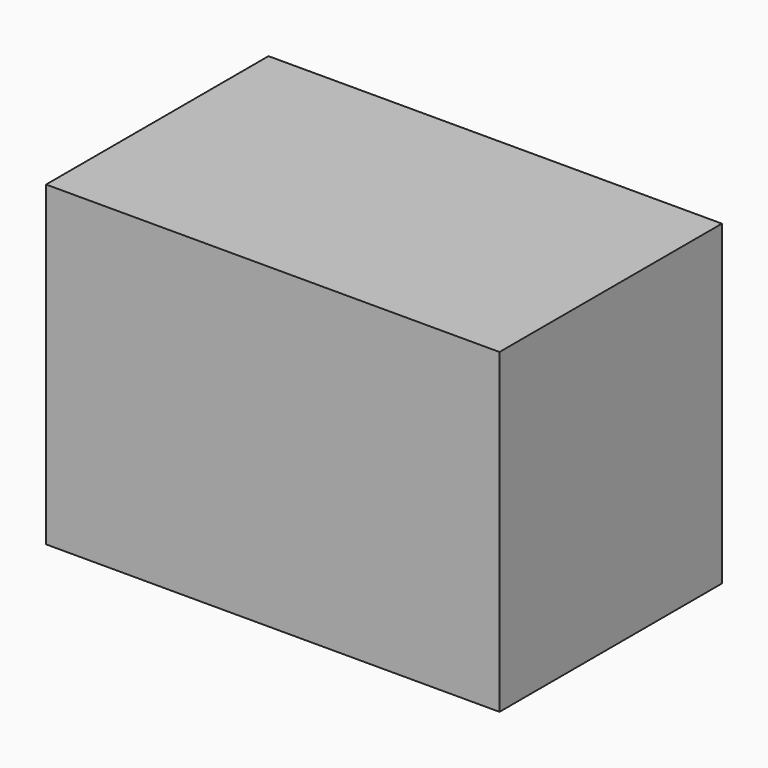
from build123d import *

# Parameters (mm, degrees)
F0_W     = 78.714288
F0_H     = 48.265144
F1_DEPTH = 25
F2_DEPTH = 25
F3_DEPTH = 30


with BuildPart() as f1:
    # F0 (on Top) → F1 (new body)
    with BuildSketch(Plane.XY):
        Rectangle(F0_W, F0_H)
    extrude(amount=F1_DEPTH)

    # F0 (on Top) → F2 (join)
    with BuildSketch(Plane.XY):
        Rectangle(F0_W, F0_H)
    extrude(amount=F2_DEPTH)

    # F0 (on Top) → F3 (join)
    with BuildSketch(Plane.XY):
        Rectangle(F0_W, F0_H)
    extrude(amount=-F3_DEPTH)


solid = f1.part
